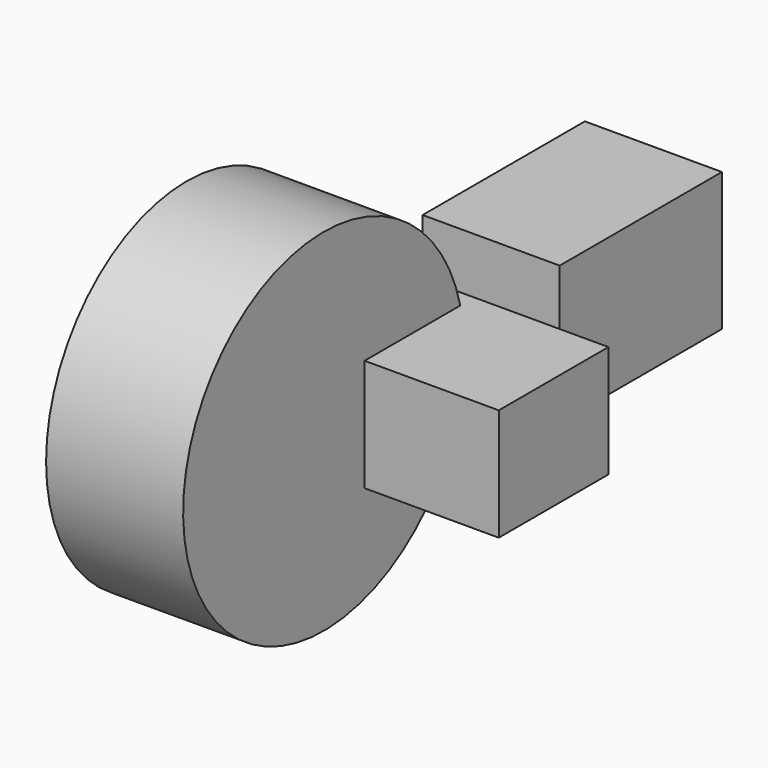
from build123d import *

# Parameters (mm, degrees)
F0_W     = 29.900016
F0_H     = 20.785517
F1_DEPTH = 25.4
F2_W     = 37.584766
F2_H     = 25.625983
F3_DEPTH = 25.4
F4_R     = 32.556838
F5_DEPTH = 25.4


with BuildPart() as f1:
    # F0 (on Front) → F1 (new body)
    with BuildSketch(Plane.XZ):
        with Locations((35.314548, 39.150802)):
            Rectangle(F0_W, F0_H)
    extrude(amount=F1_DEPTH)

    # F4 (on Right) → F5 (join)
    with BuildSketch(Plane.YZ):
        with Locations((-34.879804, 41.87803)):
            Circle(F4_R)
    extrude(amount=F5_DEPTH)


with BuildPart() as f3:
    # F2 (on Right) → F3 (new body)
    with BuildSketch(Plane.YZ):
        with Locations((38.581334, 33.88324)):
            Rectangle(F2_W, F2_H)
    extrude(amount=F3_DEPTH)


solid = Compound([f1.part, f3.part])
